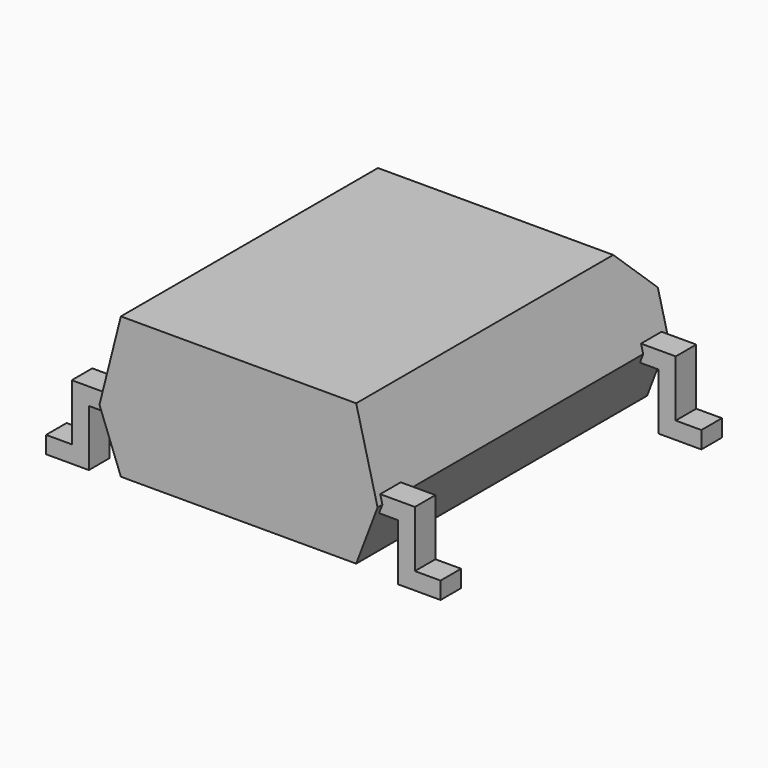
from build123d import *

# Parameters (mm, degrees)
PAD001_DEPTH = 0.3
PAD_DEPTH    = 4.25
CHAMFER_SIZE = 0.99
PAD002_DEPTH = 0.3


with BuildPart() as pad001:
    # Sketch001 → Pad001 (new body, symmetric)
    with BuildSketch(Plane.XZ):
        Polygon((-0.2, 0), (0.2, 0), (0.2, 1.32), (7.42, 1.32), (7.42, 0), (7.82, 0), (8.42, 0), (8.42, 0.4), (7.82, 0.4), (7.82, 1.72), (-0.2, 1.72), (-0.2, 0.4), (-0.8, 0.4), (-0.8, 0), align=None)
    extrude(amount=PAD001_DEPTH, both=True)


with BuildPart() as chamfer_body:
    # Sketch → Pad (new body, symmetric)
    with BuildSketch(Plane.XZ.offset(3.81)):
        Polygon((1.06, 0.2), (6.56, 0.2), (7.06, 1.52), (6.56, 3.5), (1.06, 3.5), (0.56, 1.52), align=None)
    extrude(amount=PAD_DEPTH, both=True)

    # Chamfer
    chamfer_edges = [chamfer_body.edges().sort_by_distance(p)[0] for p in [
        (3.81, 0.44, 3.5),
    ]]
    chamfer(chamfer_edges, length=CHAMFER_SIZE)


with BuildPart() as pad002:
    # Sketch002 → Pad002 (new body, symmetric)
    with BuildSketch(Plane.XZ.offset(7.62)):
        Polygon((-0.2, 0), (0.2, 0), (0.2, 1.32), (7.42, 1.32), (7.42, 0), (7.82, 0), (8.42, 0), (8.42, 0.4), (7.82, 0.4), (7.82, 1.72), (-0.2, 1.72), (-0.2, 0.4), (-0.8, 0.4), (-0.8, 0), align=None)
    extrude(amount=PAD002_DEPTH, both=True)


solid = Compound([pad001.part, chamfer_body.part, pad002.part])
